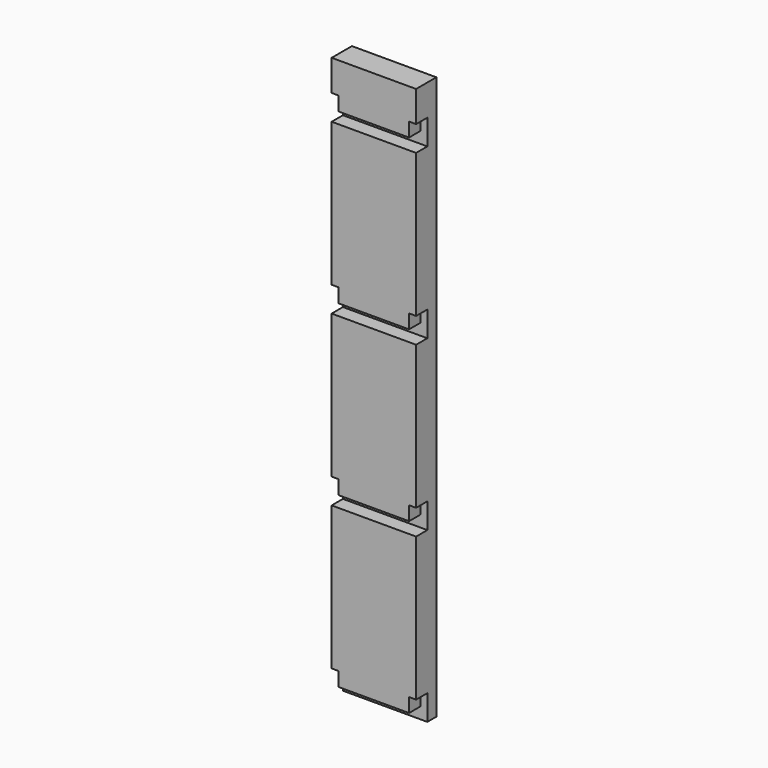
from build123d import *

# Parameters (mm, degrees)
F0_W     = 60
F0_H     = 18
F1_DEPTH = 400
F3_DEPTH = 10


with BuildPart() as f1:
    # F0 (on Top) → F1 (new body)
    with BuildSketch(Plane.XY):
        with Locations((-72.738255, 3.855676)):
            Rectangle(F0_W, F0_H)
    extrude(amount=F1_DEPTH)

    # F2 (on face) → F3 (cut)
    with BuildSketch(Plane.XZ.offset(5.144324)):
        Polygon((-102.738255, 0), (-42.738255, 0), (-42.738255, 18), (-47.738255, 18), (-47.738255, 8), (-97.738255, 8), (-97.738255, 18), (-102.738255, 18), align=None)
        Polygon((-102.738255, 138), (-102.738255, 120), (-42.738255, 120), (-42.738255, 138), (-47.738255, 138), (-47.738255, 128), (-97.738255, 128), (-97.738255, 138), align=None)
        Polygon((-102.738255, 258), (-102.738255, 240), (-42.738255, 240), (-42.738255, 258), (-47.738255, 258), (-47.738255, 248), (-97.738255, 248), (-97.738255, 258), align=None)
        Polygon((-102.738255, 378), (-102.738255, 360), (-42.738255, 360), (-42.738255, 378), (-47.738255, 378), (-47.738255, 368), (-97.738255, 368), (-97.738255, 378), align=None)
    extrude(amount=-F3_DEPTH, mode=Mode.SUBTRACT)


solid = f1.part
